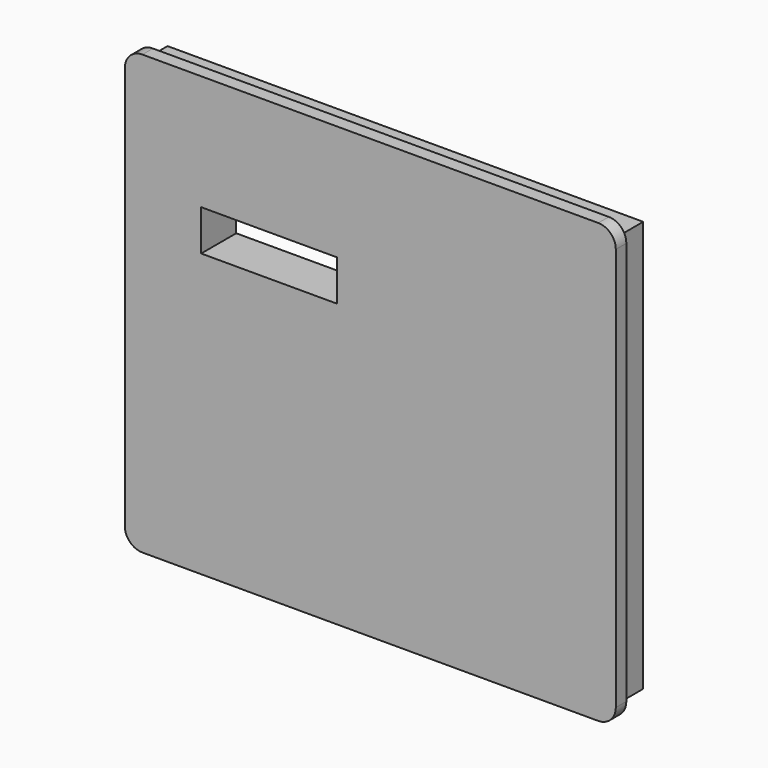
from build123d import *

# Parameters (mm, degrees)
F0_W     = 1085
F0_H     = 938
F1_DEPTH = 70
F2_W     = 1120
F2_H     = 1000
F2_W_2   = 1085
F2_H_2   = 938
F3_DEPTH = 30
F4_W     = 309.3616962433
F4_H     = 93.0531620979
F5_DEPTH = 300
F6_R     = 40


with BuildPart() as f1:
    # F0 (on Front) → F1 (new body)
    with BuildSketch(Plane.XZ):
        Rectangle(F0_W, F0_H)
    extrude(amount=F1_DEPTH)

    # F2 (on face) → F3 (join)
    with BuildSketch(Plane.XZ.offset(70)):
        Rectangle(F2_W, F2_H)
        Rectangle(F2_W_2, F2_H_2, mode=Mode.SUBTRACT)
        Rectangle(F2_W_2, F2_H_2)
    extrude(amount=F3_DEPTH)

    # F4 (on face) → F5 (cut)
    with BuildSketch(Plane(origin=(0, 0, 0), x_dir=(-1, 0, 0), z_dir=(0, 1, 0))):
        with Locations((231.1289310455, 190.5976831913)):
            Rectangle(F4_W, F4_H)
    extrude(amount=-F5_DEPTH, mode=Mode.SUBTRACT)

    # F6
    f6_edges = [f1.edges().sort_by_distance(p)[0] for p in [
        (-560, -85, 500),
        (560, -85, 500),
        (560, -85, -500),
        (-560, -85, -500),
    ]]
    fillet(f6_edges, radius=F6_R)


solid = f1.part
